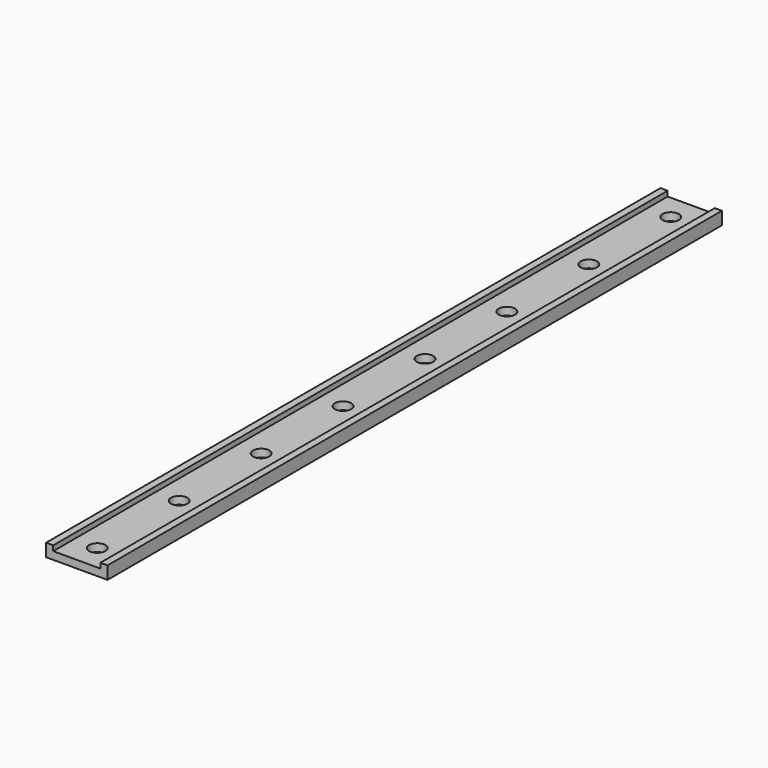
from build123d import *

# Parameters (mm, degrees)
F1_DEPTH = 75
F2_R     = 1.6
F3_DEPTH = 1.5


with BuildPart() as f1:
    # F0 (on Front) → F1 (new body, symmetric)
    with BuildSketch(Plane.XZ):
        Polygon((-4.6, 2.5), (-6, 2.5), (-6, 0), (6, 0), (6, 2.5), (4.6, 2.5), (4.6, 1.5), (-4.6, 1.5), align=None)
    extrude(amount=F1_DEPTH, both=True)

    # F2 (on face) → F3 (cut, through all)
    with BuildSketch(Plane.XY.offset(1.5)):
        with Locations((0, -70)):
            Circle(F2_R)
        with Locations((0, -50)):
            Circle(F2_R)
        with Locations((0, -30)):
            Circle(F2_R)
        with Locations((0, -10)):
            Circle(F2_R)
        with Locations((0, 10)):
            Circle(F2_R)
        with Locations((0, 30)):
            Circle(F2_R)
        with Locations((0, 50)):
            Circle(F2_R)
        with Locations((0, 70)):
            Circle(F2_R)
    extrude(amount=-F3_DEPTH, mode=Mode.SUBTRACT)


solid = f1.part
